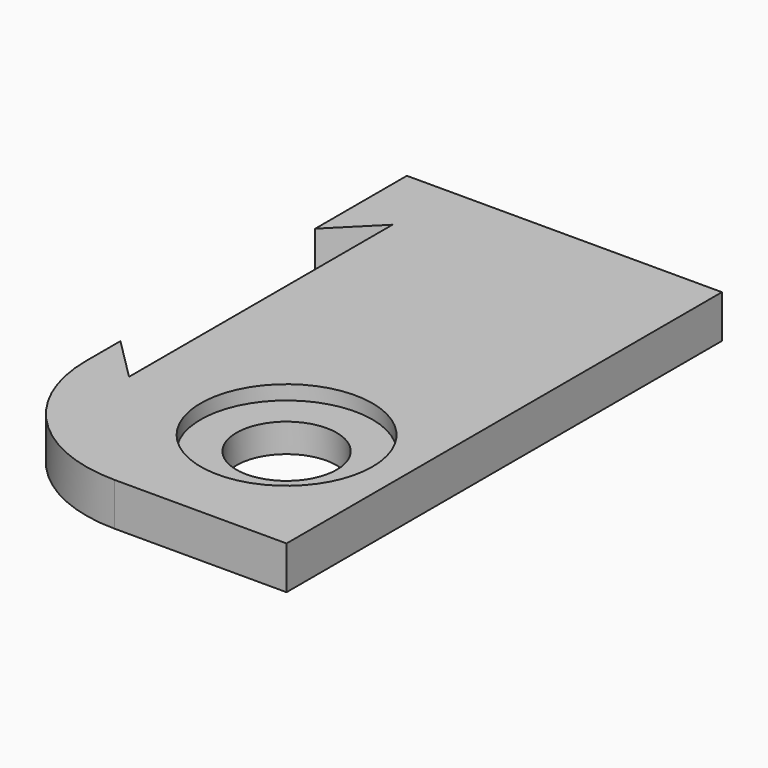
from build123d import *

# Parameters (mm, degrees)
SKETCH_W        = 11
SKETCH_H        = 19
PAD_DEPTH       = 1.5
SKETCH001_R     = 1.75
POCKET_DEPTH    = 1.5
SKETCH002_R     = 3
POCKET001_DEPTH = 0.5
POCKET002_DEPTH = 1.5
FILLET_R        = 5


with BuildPart() as part:
    # Sketch → Pad (new body)
    with BuildSketch(Plane.XY):
        with Locations((0, 1.5)):
            Rectangle(SKETCH_W, SKETCH_H)
    extrude(amount=PAD_DEPTH)

    # Sketch001 (on Face6 of Pad) → Pocket (cut)
    with BuildSketch(Plane.XY.offset(1.5)):
        with Locations((1.5, -3)):
            Circle(SKETCH001_R)
    extrude(amount=-POCKET_DEPTH, mode=Mode.SUBTRACT)

    # Sketch002 (on Face5 of Pocket) → Pocket001 (cut)
    with BuildSketch(Plane.XY.offset(1.5)):
        with Locations((1.5, -3)):
            Circle(SKETCH002_R)
    extrude(amount=-POCKET001_DEPTH, mode=Mode.SUBTRACT)

    # Sketch003 (on Face5 of Pocket001) → Pocket002 (cut)
    with BuildSketch(Plane.XY.offset(1.5)):
        Polygon((-4, 8.5), (-5.5, 7), (-5.5, -1.5), (-4, -3), align=None)
    extrude(amount=-POCKET002_DEPTH, mode=Mode.SUBTRACT)

    # Fillet
    fillet_edges = [part.edges().sort_by_distance(p)[0] for p in [
        (-5.5, -8, 0.75),
    ]]
    fillet(fillet_edges, radius=FILLET_R)


solid = part.part
